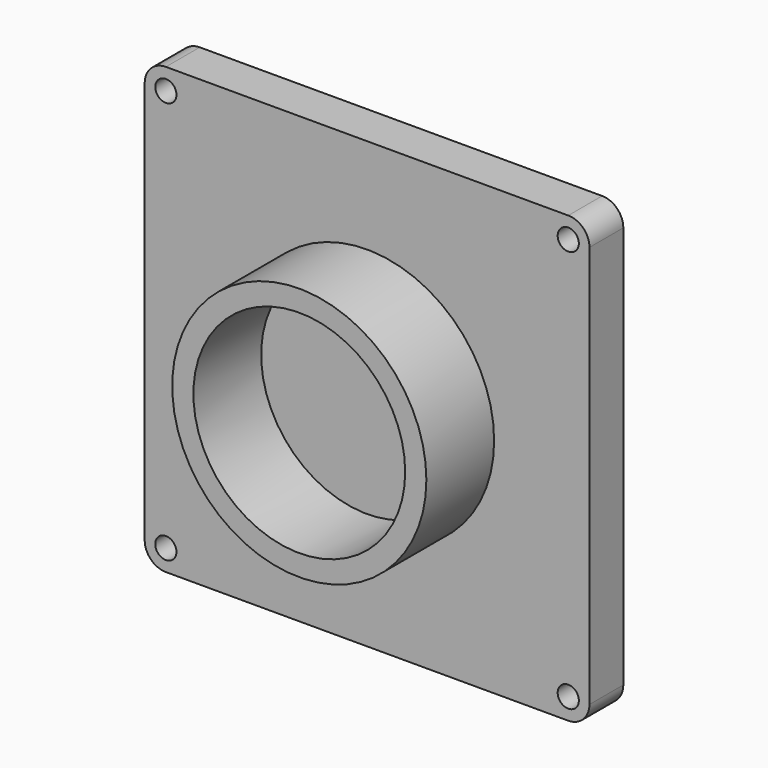
from build123d import *

# Parameters (mm, degrees)
F0_R     = 3.175
F1_DEPTH = 12.7
F2_R     = 38.1
F2_R_2   = 31.75
F3_DEPTH = 25.4


with BuildPart() as f1:
    # F0 (on Front) → F1 (new body)
    with BuildSketch(Plane.XZ):
        with BuildLine():
            Line((63.203057, 85.672887), (-57.446943, 85.672887))
            ThreePointArc((-57.446943, 85.672887), (-61.937071, 83.813015), (-63.796943, 79.322887))
            Line((-63.796943, 79.322887), (-63.796943, -41.327113))
            ThreePointArc((-63.796943, -41.327113), (-61.937071, -45.817241), (-57.446943, -47.677113))
            Line((-57.446943, -47.677113), (63.203057, -47.677113))
            ThreePointArc((63.203057, -47.677113), (67.693185, -45.817241), (69.553057, -41.327113))
            Line((69.553057, -41.327113), (69.553057, 79.322887))
            ThreePointArc((69.553057, 79.322887), (67.693185, 83.813015), (63.203057, 85.672887))
        make_face()
        with Locations((-57.446943, -41.327113)):
            Circle(F0_R, mode=Mode.SUBTRACT)
        with Locations((63.203057, -41.327113)):
            Circle(F0_R, mode=Mode.SUBTRACT)
        with Locations((-57.446943, 79.322887)):
            Circle(F0_R, mode=Mode.SUBTRACT)
        with Locations((63.203057, 79.322887)):
            Circle(F0_R, mode=Mode.SUBTRACT)
    extrude(amount=F1_DEPTH)

    # F2 (on face) → F3 (join)
    with BuildSketch(Plane.XZ.offset(12.7)):
        with Locations((2.878057, 18.997887)):
            Circle(F2_R)
        with Locations((2.878057, 18.997887)):
            Circle(F2_R_2, mode=Mode.SUBTRACT)
    extrude(amount=F3_DEPTH)


solid = f1.part
